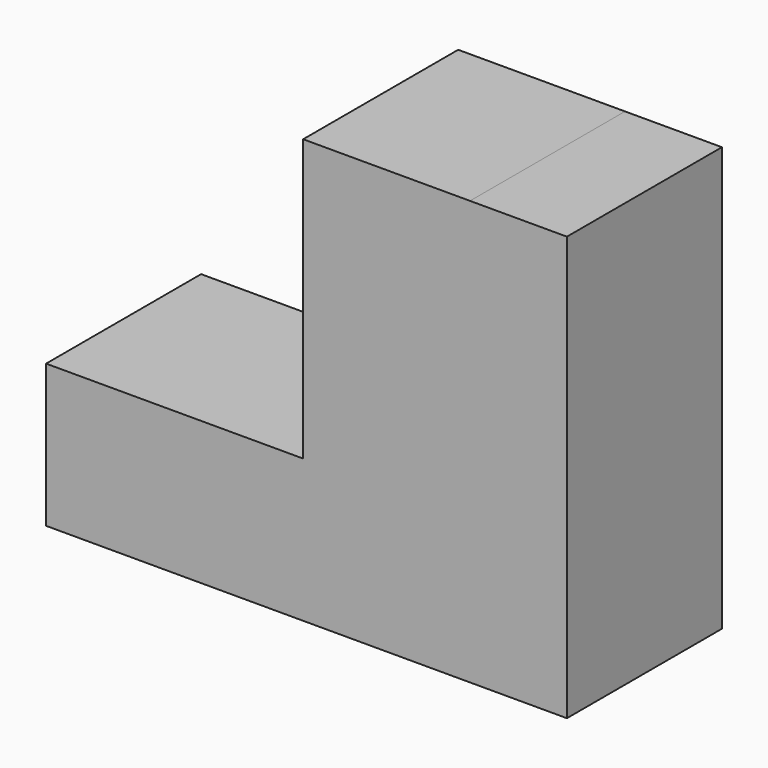
from build123d import *

# Parameters (mm, degrees)
F1_DEPTH  = 25.4
F1_FACE_W = 25.4
F1_FACE_H = 55.573448
F2_DEPTH  = 12.7


with BuildPart() as f1:
    # F0 (on Front) → F1 (new body)
    with BuildSketch(Plane.XZ):
        Polygon((0, 18.721553), (0, 0), (55.573452, 0), (55.573452, 55.573449), (33.698794, 55.573449), (33.698794, 18.721553), align=None)
    extrude(amount=F1_DEPTH)

    # F1_face (on face) → F2 (join, symmetric)
    with BuildSketch(Plane(origin=(55.573452, -12.7, 27.786724), x_dir=(0, 1, 0), z_dir=(1, 0, 0))):
        Rectangle(F1_FACE_W, F1_FACE_H)
    extrude(amount=F2_DEPTH, both=True)


solid = f1.part
